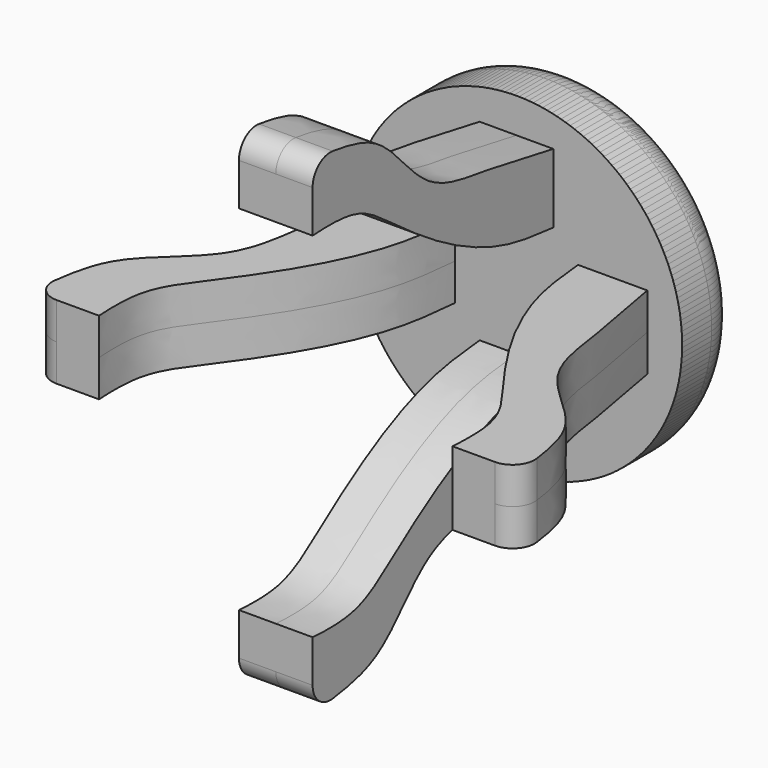
from build123d import *

# Parameters (mm, degrees)
F0_R     = 22.5
F1_DEPTH = 10
F2_R     = 5
F4_DEPTH = 5
F5_R     = 3
F7_COUNT = 4


with BuildPart() as f1:
    # F0 (on Front) → F1 (new body)
    with BuildSketch(Plane.XZ):
        Circle(F0_R)
    extrude(amount=-F1_DEPTH)

    # F2
    f2_edges = [f1.edges().sort_by_distance(p)[0] for p in [
        (-22.5, 10, 0),
    ]]
    fillet(f2_edges, radius=F2_R)

    # F3 (on Top) → F4 (join, symmetric)
    with BuildSketch(Plane.XY):
        with BuildLine():
            add(Edge.make_bspline(
                [(17.7649836987, 0), (18.2074235019, -2.3672099402), (19.0532133309, -6.892485641), (20.0410501338, -12.5201661412), (21.1049696089, -21.2959430667), (29.0210341942, -27.2566060771), (32.4327940215, -32.6473903957), (33.0162489187, -40.1217482226), (33.044680953, -40.8388525248)],
                knots=[0, 0, 0, 0, 0.1571465475, 0.3004091192, 0.4728657278, 0.65459714, 0.8132819108, 0.9741394555, 0.9741394555, 0.9741394555, 0.9741394555], degree=3))
            Line((17.7649836987, 0), (8.3602564409, 0))
            add(Edge.make_bspline(
                [(8.3602564409, 0), (8.6285004499, -2.7695700825), (9.199762474, -8.6677454686), (13.6609573734, -18.5661395522), (20.1696713255, -27.6640791659), (24.5807882143, -33.3483760699), (24.0247206055, -40.2345396841), (24.0000057966, -40.8388525248)],
                knots=[0, 0, 0, 0, 0.1915601657, 0.407953372, 0.6267690599, 0.8084053801, 0.9744425615, 0.9744425615, 0.9744425615, 0.9744425615], degree=3))
            Line((24.0000057966, -40.8388525248), (33.044680953, -40.8388525248))
        make_face()
    extrude(amount=F4_DEPTH, both=True)

    # F5
    f5_edges = [f1.edges().sort_by_distance(p)[0] for p in [
        (33.044681, -40.838853, -2.5),
        (33.044681, -40.838853, 2.5),
    ]]
    fillet(f5_edges, radius=F5_R)


with BuildPart() as f7_1:
    # F7: instance of F1
    add(f1.part.rotate(Axis((0, -9.9823959172, 0), (0, -1, 0)), 1 * 360 / F7_COUNT))


with BuildPart() as f7_2:
    # F7: instance of F1
    add(f1.part.rotate(Axis((0, -9.9823959172, 0), (0, -1, 0)), 2 * 360 / F7_COUNT))


with BuildPart() as f7_3:
    # F7: instance of F1
    add(f1.part.rotate(Axis((0, -9.9823959172, 0), (0, -1, 0)), 3 * 360 / F7_COUNT))


solid = Compound([f1.part, f7_1.part, f7_2.part, f7_3.part])
